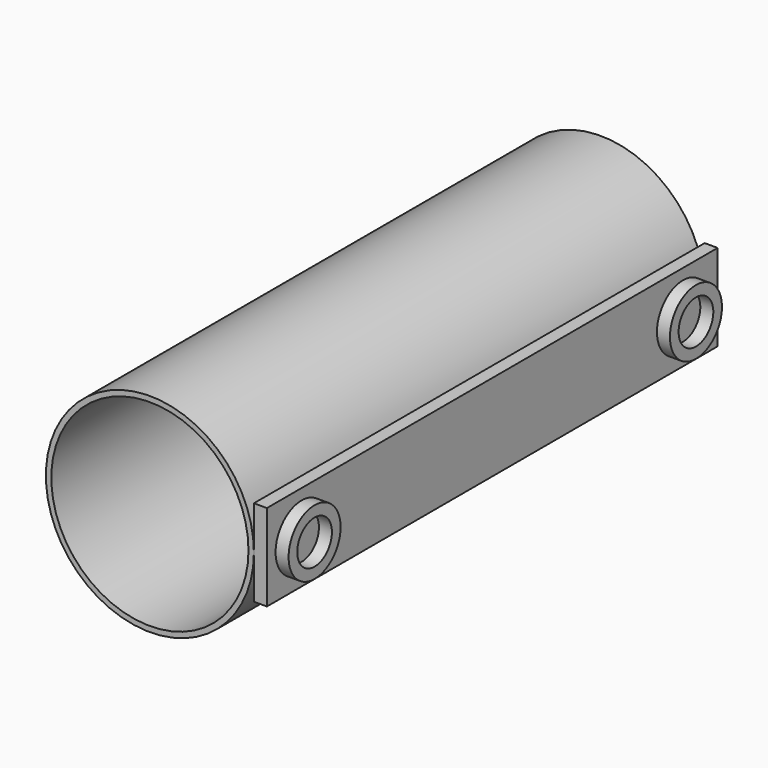
from build123d import *

# Parameters (mm, degrees)
F0_R     = 24
F0_R_2   = 22.75
F1_DEPTH = 65
F3_DEPTH = 130
F4_R     = 7.5
F4_R_2   = 5
F5_DEPTH = 3


with BuildPart() as f1:
    # F0 (on Front) → F1 (new body, symmetric)
    with BuildSketch(Plane.XZ):
        Circle(F0_R)
        Circle(F0_R_2, mode=Mode.SUBTRACT)
    extrude(amount=F1_DEPTH, both=True)


with BuildPart() as f3:
    # F2 (on face) → F3 (new body)
    with BuildSketch(Plane.XZ.offset(65)):
        Polygon((24, 10), (24, 0), (24, -10), (27, -10), (27, 10), align=None)
    extrude(amount=-F3_DEPTH)


with BuildPart() as f5:
    # F4 (on face) → F5 (new body)
    with BuildSketch(Plane.YZ.offset(27)):
        with Locations((-55, 0)):
            Circle(F4_R)
        with Locations((-55, 0)):
            Circle(F4_R_2, mode=Mode.SUBTRACT)
    extrude(amount=F5_DEPTH)


with BuildPart() as f5b:
    # F4 (on face) → F5, piece 2 (new body)
    with BuildSketch(Plane.YZ.offset(27)):
        with BuildLine():
            ThreePointArc((62.5, 0), (55, 7.5), (47.5, 0))
            ThreePointArc((47.5, 0), (55, -7.5), (62.5, 0))
        make_face()
        with BuildLine():
            ThreePointArc((60, 0), (55, -5), (50, 0))
            ThreePointArc((50, 0), (55, 5), (60, 0))
        make_face(mode=Mode.SUBTRACT)
    extrude(amount=F5_DEPTH)


solid = Compound([f1.part, f3.part, f5.part, f5b.part])
